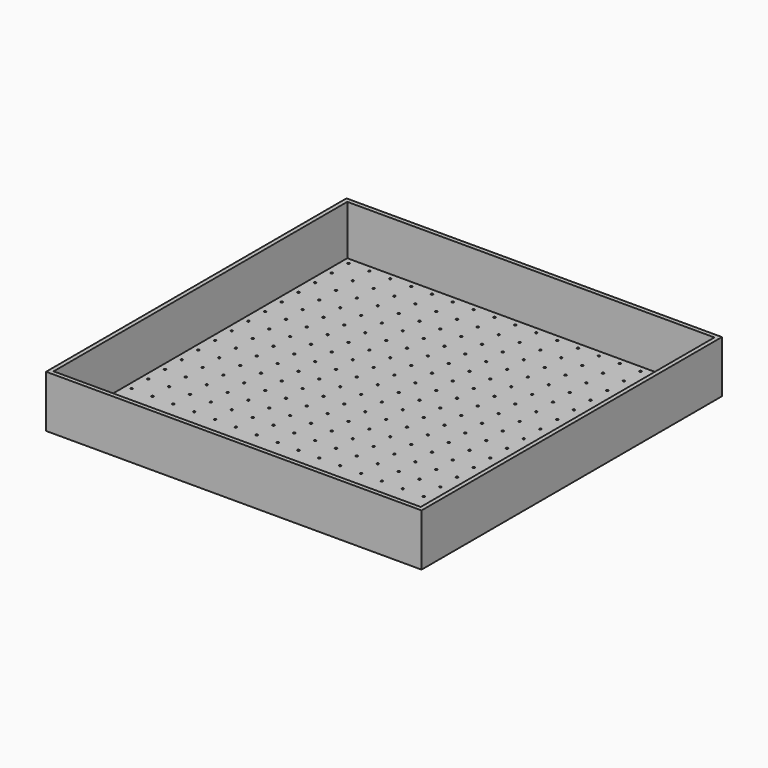
from build123d import *

# Parameters (mm, degrees)
F0_W     = 180
F0_H     = 180
F0_W_2   = 176
F0_H_2   = 176
F0_R     = 0.5
F1_DEPTH = 1.2
F2_DEPTH = 25


with BuildPart() as f1:
    # F0 (on Top) → F1 (new body)
    with BuildSketch(Plane.XY):
        with Locations((90, -90)):
            Rectangle(F0_W, F0_H)
        with Locations((90, -90)):
            Rectangle(F0_W_2, F0_H_2, mode=Mode.SUBTRACT)
        with Locations((90, -90)):
            Rectangle(F0_W_2, F0_H_2)
        with Locations((5, -175)):
            Circle(F0_R, mode=Mode.SUBTRACT)
        with Locations((15, -175)):
            Circle(F0_R, mode=Mode.SUBTRACT)
        with Locations((5, -165)):
            Circle(F0_R, mode=Mode.SUBTRACT)
        with Locations((15, -165)):
            Circle(F0_R, mode=Mode.SUBTRACT)
        with Locations((25, -175)):
            Circle(F0_R, mode=Mode.SUBTRACT)
        with Locations((35, -175)):
            Circle(F0_R, mode=Mode.SUBTRACT)
        with Locations((25, -165)):
            Circle(F0_R, mode=Mode.SUBTRACT)
        with Locations((35, -165)):
            Circle(F0_R, mode=Mode.SUBTRACT)
        with Locations((5, -155)):
            Circle(F0_R, mode=Mode.SUBTRACT)
        with Locations((15, -155)):
            Circle(F0_R, mode=Mode.SUBTRACT)
        with Locations((5, -145)):
            Circle(F0_R, mode=Mode.SUBTRACT)
        with Locations((15, -145)):
            Circle(F0_R, mode=Mode.SUBTRACT)
        with Locations((25, -155)):
            Circle(F0_R, mode=Mode.SUBTRACT)
        with Locations((35, -155)):
            Circle(F0_R, mode=Mode.SUBTRACT)
        with Locations((25, -145)):
            Circle(F0_R, mode=Mode.SUBTRACT)
        with Locations((35, -145)):
            Circle(F0_R, mode=Mode.SUBTRACT)
        with Locations((45, -175)):
            Circle(F0_R, mode=Mode.SUBTRACT)
        with Locations((55, -175)):
            Circle(F0_R, mode=Mode.SUBTRACT)
        with Locations((65, -175)):
            Circle(F0_R, mode=Mode.SUBTRACT)
        with Locations((45, -165)):
            Circle(F0_R, mode=Mode.SUBTRACT)
        with Locations((55, -165)):
            Circle(F0_R, mode=Mode.SUBTRACT)
        with Locations((65, -165)):
            Circle(F0_R, mode=Mode.SUBTRACT)
        with Locations((75, -175)):
            Circle(F0_R, mode=Mode.SUBTRACT)
        with Locations((85, -175)):
            Circle(F0_R, mode=Mode.SUBTRACT)
        with Locations((75, -165)):
            Circle(F0_R, mode=Mode.SUBTRACT)
        with Locations((85, -165)):
            Circle(F0_R, mode=Mode.SUBTRACT)
        with Locations((45, -155)):
            Circle(F0_R, mode=Mode.SUBTRACT)
        with Locations((55, -155)):
            Circle(F0_R, mode=Mode.SUBTRACT)
        with Locations((65, -155)):
            Circle(F0_R, mode=Mode.SUBTRACT)
        with Locations((45, -145)):
            Circle(F0_R, mode=Mode.SUBTRACT)
        with Locations((55, -145)):
            Circle(F0_R, mode=Mode.SUBTRACT)
        with Locations((65, -145)):
            Circle(F0_R, mode=Mode.SUBTRACT)
        with Locations((75, -155)):
            Circle(F0_R, mode=Mode.SUBTRACT)
        with Locations((85, -155)):
            Circle(F0_R, mode=Mode.SUBTRACT)
        with Locations((75, -145)):
            Circle(F0_R, mode=Mode.SUBTRACT)
        with Locations((85, -145)):
            Circle(F0_R, mode=Mode.SUBTRACT)
        with Locations((5, -135)):
            Circle(F0_R, mode=Mode.SUBTRACT)
        with Locations((5, -125)):
            Circle(F0_R, mode=Mode.SUBTRACT)
        with Locations((15, -135)):
            Circle(F0_R, mode=Mode.SUBTRACT)
        with Locations((15, -125)):
            Circle(F0_R, mode=Mode.SUBTRACT)
        with Locations((5, -115)):
            Circle(F0_R, mode=Mode.SUBTRACT)
        with Locations((15, -115)):
            Circle(F0_R, mode=Mode.SUBTRACT)
        with Locations((25, -135)):
            Circle(F0_R, mode=Mode.SUBTRACT)
        with Locations((25, -125)):
            Circle(F0_R, mode=Mode.SUBTRACT)
        with Locations((35, -135)):
            Circle(F0_R, mode=Mode.SUBTRACT)
        with Locations((35, -125)):
            Circle(F0_R, mode=Mode.SUBTRACT)
        with Locations((25, -115)):
            Circle(F0_R, mode=Mode.SUBTRACT)
        with Locations((35, -115)):
            Circle(F0_R, mode=Mode.SUBTRACT)
        with Locations((5, -105)):
            Circle(F0_R, mode=Mode.SUBTRACT)
        with Locations((15, -105)):
            Circle(F0_R, mode=Mode.SUBTRACT)
        with Locations((5, -95)):
            Circle(F0_R, mode=Mode.SUBTRACT)
        with Locations((15, -95)):
            Circle(F0_R, mode=Mode.SUBTRACT)
        with Locations((25, -105)):
            Circle(F0_R, mode=Mode.SUBTRACT)
        with Locations((35, -105)):
            Circle(F0_R, mode=Mode.SUBTRACT)
        with Locations((25, -95)):
            Circle(F0_R, mode=Mode.SUBTRACT)
        with Locations((35, -95)):
            Circle(F0_R, mode=Mode.SUBTRACT)
        with Locations((45, -135)):
            Circle(F0_R, mode=Mode.SUBTRACT)
        with Locations((55, -135)):
            Circle(F0_R, mode=Mode.SUBTRACT)
        with Locations((45, -125)):
            Circle(F0_R, mode=Mode.SUBTRACT)
        with Locations((55, -125)):
            Circle(F0_R, mode=Mode.SUBTRACT)
        with Locations((65, -135)):
            Circle(F0_R, mode=Mode.SUBTRACT)
        with Locations((65, -125)):
            Circle(F0_R, mode=Mode.SUBTRACT)
        with Locations((45, -115)):
            Circle(F0_R, mode=Mode.SUBTRACT)
        with Locations((55, -115)):
            Circle(F0_R, mode=Mode.SUBTRACT)
        with Locations((65, -115)):
            Circle(F0_R, mode=Mode.SUBTRACT)
        with Locations((75, -135)):
            Circle(F0_R, mode=Mode.SUBTRACT)
        with Locations((75, -125)):
            Circle(F0_R, mode=Mode.SUBTRACT)
        with Locations((85, -135)):
            Circle(F0_R, mode=Mode.SUBTRACT)
        with Locations((85, -125)):
            Circle(F0_R, mode=Mode.SUBTRACT)
        with Locations((75, -115)):
            Circle(F0_R, mode=Mode.SUBTRACT)
        with Locations((85, -115)):
            Circle(F0_R, mode=Mode.SUBTRACT)
        with Locations((45, -105)):
            Circle(F0_R, mode=Mode.SUBTRACT)
        with Locations((55, -105)):
            Circle(F0_R, mode=Mode.SUBTRACT)
        with Locations((65, -105)):
            Circle(F0_R, mode=Mode.SUBTRACT)
        with Locations((45, -95)):
            Circle(F0_R, mode=Mode.SUBTRACT)
        with Locations((55, -95)):
            Circle(F0_R, mode=Mode.SUBTRACT)
        with Locations((65, -95)):
            Circle(F0_R, mode=Mode.SUBTRACT)
        with Locations((75, -105)):
            Circle(F0_R, mode=Mode.SUBTRACT)
        with Locations((85, -105)):
            Circle(F0_R, mode=Mode.SUBTRACT)
        with Locations((75, -95)):
            Circle(F0_R, mode=Mode.SUBTRACT)
        with Locations((85, -95)):
            Circle(F0_R, mode=Mode.SUBTRACT)
        with Locations((95, -175)):
            Circle(F0_R, mode=Mode.SUBTRACT)
        with Locations((105, -175)):
            Circle(F0_R, mode=Mode.SUBTRACT)
        with Locations((95, -165)):
            Circle(F0_R, mode=Mode.SUBTRACT)
        with Locations((105, -165)):
            Circle(F0_R, mode=Mode.SUBTRACT)
        with Locations((115, -175)):
            Circle(F0_R, mode=Mode.SUBTRACT)
        with Locations((125, -175)):
            Circle(F0_R, mode=Mode.SUBTRACT)
        with Locations((115, -165)):
            Circle(F0_R, mode=Mode.SUBTRACT)
        with Locations((125, -165)):
            Circle(F0_R, mode=Mode.SUBTRACT)
        with Locations((95, -155)):
            Circle(F0_R, mode=Mode.SUBTRACT)
        with Locations((105, -155)):
            Circle(F0_R, mode=Mode.SUBTRACT)
        with Locations((95, -145)):
            Circle(F0_R, mode=Mode.SUBTRACT)
        with Locations((105, -145)):
            Circle(F0_R, mode=Mode.SUBTRACT)
        with Locations((115, -155)):
            Circle(F0_R, mode=Mode.SUBTRACT)
        with Locations((125, -155)):
            Circle(F0_R, mode=Mode.SUBTRACT)
        with Locations((115, -145)):
            Circle(F0_R, mode=Mode.SUBTRACT)
        with Locations((125, -145)):
            Circle(F0_R, mode=Mode.SUBTRACT)
        with Locations((135, -175)):
            Circle(F0_R, mode=Mode.SUBTRACT)
        with Locations((145, -175)):
            Circle(F0_R, mode=Mode.SUBTRACT)
        with Locations((155, -175)):
            Circle(F0_R, mode=Mode.SUBTRACT)
        with Locations((135, -165)):
            Circle(F0_R, mode=Mode.SUBTRACT)
        with Locations((145, -165)):
            Circle(F0_R, mode=Mode.SUBTRACT)
        with Locations((155, -165)):
            Circle(F0_R, mode=Mode.SUBTRACT)
        with Locations((165, -175)):
            Circle(F0_R, mode=Mode.SUBTRACT)
        with Locations((175, -175)):
            Circle(F0_R, mode=Mode.SUBTRACT)
        with Locations((165, -165)):
            Circle(F0_R, mode=Mode.SUBTRACT)
        with Locations((175, -165)):
            Circle(F0_R, mode=Mode.SUBTRACT)
        with Locations((135, -155)):
            Circle(F0_R, mode=Mode.SUBTRACT)
        with Locations((145, -155)):
            Circle(F0_R, mode=Mode.SUBTRACT)
        with Locations((155, -155)):
            Circle(F0_R, mode=Mode.SUBTRACT)
        with Locations((135, -145)):
            Circle(F0_R, mode=Mode.SUBTRACT)
        with Locations((145, -145)):
            Circle(F0_R, mode=Mode.SUBTRACT)
        with Locations((155, -145)):
            Circle(F0_R, mode=Mode.SUBTRACT)
        with Locations((165, -155)):
            Circle(F0_R, mode=Mode.SUBTRACT)
        with Locations((175, -155)):
            Circle(F0_R, mode=Mode.SUBTRACT)
        with Locations((165, -145)):
            Circle(F0_R, mode=Mode.SUBTRACT)
        with Locations((175, -145)):
            Circle(F0_R, mode=Mode.SUBTRACT)
        with Locations((95, -135)):
            Circle(F0_R, mode=Mode.SUBTRACT)
        with Locations((95, -125)):
            Circle(F0_R, mode=Mode.SUBTRACT)
        with Locations((105, -135)):
            Circle(F0_R, mode=Mode.SUBTRACT)
        with Locations((105, -125)):
            Circle(F0_R, mode=Mode.SUBTRACT)
        with Locations((95, -115)):
            Circle(F0_R, mode=Mode.SUBTRACT)
        with Locations((105, -115)):
            Circle(F0_R, mode=Mode.SUBTRACT)
        with Locations((115, -135)):
            Circle(F0_R, mode=Mode.SUBTRACT)
        with Locations((115, -125)):
            Circle(F0_R, mode=Mode.SUBTRACT)
        with Locations((125, -135)):
            Circle(F0_R, mode=Mode.SUBTRACT)
        with Locations((125, -125)):
            Circle(F0_R, mode=Mode.SUBTRACT)
        with Locations((115, -115)):
            Circle(F0_R, mode=Mode.SUBTRACT)
        with Locations((125, -115)):
            Circle(F0_R, mode=Mode.SUBTRACT)
        with Locations((95, -105)):
            Circle(F0_R, mode=Mode.SUBTRACT)
        with Locations((105, -105)):
            Circle(F0_R, mode=Mode.SUBTRACT)
        with Locations((95, -95)):
            Circle(F0_R, mode=Mode.SUBTRACT)
        with Locations((105, -95)):
            Circle(F0_R, mode=Mode.SUBTRACT)
        with Locations((115, -105)):
            Circle(F0_R, mode=Mode.SUBTRACT)
        with Locations((125, -105)):
            Circle(F0_R, mode=Mode.SUBTRACT)
        with Locations((115, -95)):
            Circle(F0_R, mode=Mode.SUBTRACT)
        with Locations((125, -95)):
            Circle(F0_R, mode=Mode.SUBTRACT)
        with Locations((135, -135)):
            Circle(F0_R, mode=Mode.SUBTRACT)
        with Locations((145, -135)):
            Circle(F0_R, mode=Mode.SUBTRACT)
        with Locations((135, -125)):
            Circle(F0_R, mode=Mode.SUBTRACT)
        with Locations((145, -125)):
            Circle(F0_R, mode=Mode.SUBTRACT)
        with Locations((155, -135)):
            Circle(F0_R, mode=Mode.SUBTRACT)
        with Locations((155, -125)):
            Circle(F0_R, mode=Mode.SUBTRACT)
        with Locations((135, -115)):
            Circle(F0_R, mode=Mode.SUBTRACT)
        with Locations((145, -115)):
            Circle(F0_R, mode=Mode.SUBTRACT)
        with Locations((155, -115)):
            Circle(F0_R, mode=Mode.SUBTRACT)
        with Locations((165, -135)):
            Circle(F0_R, mode=Mode.SUBTRACT)
        with Locations((165, -125)):
            Circle(F0_R, mode=Mode.SUBTRACT)
        with Locations((175, -135)):
            Circle(F0_R, mode=Mode.SUBTRACT)
        with Locations((175, -125)):
            Circle(F0_R, mode=Mode.SUBTRACT)
        with Locations((165, -115)):
            Circle(F0_R, mode=Mode.SUBTRACT)
        with Locations((175, -115)):
            Circle(F0_R, mode=Mode.SUBTRACT)
        with Locations((135, -105)):
            Circle(F0_R, mode=Mode.SUBTRACT)
        with Locations((145, -105)):
            Circle(F0_R, mode=Mode.SUBTRACT)
        with Locations((155, -105)):
            Circle(F0_R, mode=Mode.SUBTRACT)
        with Locations((135, -95)):
            Circle(F0_R, mode=Mode.SUBTRACT)
        with Locations((145, -95)):
            Circle(F0_R, mode=Mode.SUBTRACT)
        with Locations((155, -95)):
            Circle(F0_R, mode=Mode.SUBTRACT)
        with Locations((165, -105)):
            Circle(F0_R, mode=Mode.SUBTRACT)
        with Locations((175, -105)):
            Circle(F0_R, mode=Mode.SUBTRACT)
        with Locations((165, -95)):
            Circle(F0_R, mode=Mode.SUBTRACT)
        with Locations((175, -95)):
            Circle(F0_R, mode=Mode.SUBTRACT)
        with Locations((5, -85)):
            Circle(F0_R, mode=Mode.SUBTRACT)
        with Locations((15, -85)):
            Circle(F0_R, mode=Mode.SUBTRACT)
        with Locations((5, -75)):
            Circle(F0_R, mode=Mode.SUBTRACT)
        with Locations((15, -75)):
            Circle(F0_R, mode=Mode.SUBTRACT)
        with Locations((25, -85)):
            Circle(F0_R, mode=Mode.SUBTRACT)
        with Locations((35, -85)):
            Circle(F0_R, mode=Mode.SUBTRACT)
        with Locations((25, -75)):
            Circle(F0_R, mode=Mode.SUBTRACT)
        with Locations((35, -75)):
            Circle(F0_R, mode=Mode.SUBTRACT)
        with Locations((5, -65)):
            Circle(F0_R, mode=Mode.SUBTRACT)
        with Locations((15, -65)):
            Circle(F0_R, mode=Mode.SUBTRACT)
        with Locations((5, -55)):
            Circle(F0_R, mode=Mode.SUBTRACT)
        with Locations((15, -55)):
            Circle(F0_R, mode=Mode.SUBTRACT)
        with Locations((25, -65)):
            Circle(F0_R, mode=Mode.SUBTRACT)
        with Locations((35, -65)):
            Circle(F0_R, mode=Mode.SUBTRACT)
        with Locations((25, -55)):
            Circle(F0_R, mode=Mode.SUBTRACT)
        with Locations((35, -55)):
            Circle(F0_R, mode=Mode.SUBTRACT)
        with Locations((45, -85)):
            Circle(F0_R, mode=Mode.SUBTRACT)
        with Locations((55, -85)):
            Circle(F0_R, mode=Mode.SUBTRACT)
        with Locations((65, -85)):
            Circle(F0_R, mode=Mode.SUBTRACT)
        with Locations((45, -75)):
            Circle(F0_R, mode=Mode.SUBTRACT)
        with Locations((55, -75)):
            Circle(F0_R, mode=Mode.SUBTRACT)
        with Locations((65, -75)):
            Circle(F0_R, mode=Mode.SUBTRACT)
        with Locations((75, -85)):
            Circle(F0_R, mode=Mode.SUBTRACT)
        with Locations((85, -85)):
            Circle(F0_R, mode=Mode.SUBTRACT)
        with Locations((75, -75)):
            Circle(F0_R, mode=Mode.SUBTRACT)
        with Locations((85, -75)):
            Circle(F0_R, mode=Mode.SUBTRACT)
        with Locations((45, -65)):
            Circle(F0_R, mode=Mode.SUBTRACT)
        with Locations((55, -65)):
            Circle(F0_R, mode=Mode.SUBTRACT)
        with Locations((65, -65)):
            Circle(F0_R, mode=Mode.SUBTRACT)
        with Locations((45, -55)):
            Circle(F0_R, mode=Mode.SUBTRACT)
        with Locations((55, -55)):
            Circle(F0_R, mode=Mode.SUBTRACT)
        with Locations((65, -55)):
            Circle(F0_R, mode=Mode.SUBTRACT)
        with Locations((75, -65)):
            Circle(F0_R, mode=Mode.SUBTRACT)
        with Locations((85, -65)):
            Circle(F0_R, mode=Mode.SUBTRACT)
        with Locations((75, -55)):
            Circle(F0_R, mode=Mode.SUBTRACT)
        with Locations((85, -55)):
            Circle(F0_R, mode=Mode.SUBTRACT)
        with Locations((5, -45)):
            Circle(F0_R, mode=Mode.SUBTRACT)
        with Locations((5, -35)):
            Circle(F0_R, mode=Mode.SUBTRACT)
        with Locations((15, -45)):
            Circle(F0_R, mode=Mode.SUBTRACT)
        with Locations((15, -35)):
            Circle(F0_R, mode=Mode.SUBTRACT)
        with Locations((5, -25)):
            Circle(F0_R, mode=Mode.SUBTRACT)
        with Locations((15, -25)):
            Circle(F0_R, mode=Mode.SUBTRACT)
        with Locations((25, -45)):
            Circle(F0_R, mode=Mode.SUBTRACT)
        with Locations((25, -35)):
            Circle(F0_R, mode=Mode.SUBTRACT)
        with Locations((35, -45)):
            Circle(F0_R, mode=Mode.SUBTRACT)
        with Locations((35, -35)):
            Circle(F0_R, mode=Mode.SUBTRACT)
        with Locations((25, -25)):
            Circle(F0_R, mode=Mode.SUBTRACT)
        with Locations((35, -25)):
            Circle(F0_R, mode=Mode.SUBTRACT)
        with Locations((5, -15)):
            Circle(F0_R, mode=Mode.SUBTRACT)
        with Locations((15, -15)):
            Circle(F0_R, mode=Mode.SUBTRACT)
        with Locations((5, -5)):
            Circle(F0_R, mode=Mode.SUBTRACT)
        with Locations((15, -5)):
            Circle(F0_R, mode=Mode.SUBTRACT)
        with Locations((25, -15)):
            Circle(F0_R, mode=Mode.SUBTRACT)
        with Locations((35, -15)):
            Circle(F0_R, mode=Mode.SUBTRACT)
        with Locations((25, -5)):
            Circle(F0_R, mode=Mode.SUBTRACT)
        with Locations((35, -5)):
            Circle(F0_R, mode=Mode.SUBTRACT)
        with Locations((45, -45)):
            Circle(F0_R, mode=Mode.SUBTRACT)
        with Locations((55, -45)):
            Circle(F0_R, mode=Mode.SUBTRACT)
        with Locations((45, -35)):
            Circle(F0_R, mode=Mode.SUBTRACT)
        with Locations((55, -35)):
            Circle(F0_R, mode=Mode.SUBTRACT)
        with Locations((65, -45)):
            Circle(F0_R, mode=Mode.SUBTRACT)
        with Locations((65, -35)):
            Circle(F0_R, mode=Mode.SUBTRACT)
        with Locations((45, -25)):
            Circle(F0_R, mode=Mode.SUBTRACT)
        with Locations((55, -25)):
            Circle(F0_R, mode=Mode.SUBTRACT)
        with Locations((65, -25)):
            Circle(F0_R, mode=Mode.SUBTRACT)
        with Locations((75, -45)):
            Circle(F0_R, mode=Mode.SUBTRACT)
        with Locations((75, -35)):
            Circle(F0_R, mode=Mode.SUBTRACT)
        with Locations((85, -45)):
            Circle(F0_R, mode=Mode.SUBTRACT)
        with Locations((85, -35)):
            Circle(F0_R, mode=Mode.SUBTRACT)
        with Locations((75, -25)):
            Circle(F0_R, mode=Mode.SUBTRACT)
        with Locations((85, -25)):
            Circle(F0_R, mode=Mode.SUBTRACT)
        with Locations((45, -15)):
            Circle(F0_R, mode=Mode.SUBTRACT)
        with Locations((55, -15)):
            Circle(F0_R, mode=Mode.SUBTRACT)
        with Locations((65, -15)):
            Circle(F0_R, mode=Mode.SUBTRACT)
        with Locations((45, -5)):
            Circle(F0_R, mode=Mode.SUBTRACT)
        with Locations((55, -5)):
            Circle(F0_R, mode=Mode.SUBTRACT)
        with Locations((65, -5)):
            Circle(F0_R, mode=Mode.SUBTRACT)
        with Locations((75, -15)):
            Circle(F0_R, mode=Mode.SUBTRACT)
        with Locations((85, -15)):
            Circle(F0_R, mode=Mode.SUBTRACT)
        with Locations((75, -5)):
            Circle(F0_R, mode=Mode.SUBTRACT)
        with Locations((85, -5)):
            Circle(F0_R, mode=Mode.SUBTRACT)
        with Locations((95, -85)):
            Circle(F0_R, mode=Mode.SUBTRACT)
        with Locations((105, -85)):
            Circle(F0_R, mode=Mode.SUBTRACT)
        with Locations((95, -75)):
            Circle(F0_R, mode=Mode.SUBTRACT)
        with Locations((105, -75)):
            Circle(F0_R, mode=Mode.SUBTRACT)
        with Locations((115, -85)):
            Circle(F0_R, mode=Mode.SUBTRACT)
        with Locations((125, -85)):
            Circle(F0_R, mode=Mode.SUBTRACT)
        with Locations((115, -75)):
            Circle(F0_R, mode=Mode.SUBTRACT)
        with Locations((125, -75)):
            Circle(F0_R, mode=Mode.SUBTRACT)
        with Locations((95, -65)):
            Circle(F0_R, mode=Mode.SUBTRACT)
        with Locations((105, -65)):
            Circle(F0_R, mode=Mode.SUBTRACT)
        with Locations((95, -55)):
            Circle(F0_R, mode=Mode.SUBTRACT)
        with Locations((105, -55)):
            Circle(F0_R, mode=Mode.SUBTRACT)
        with Locations((115, -65)):
            Circle(F0_R, mode=Mode.SUBTRACT)
        with Locations((125, -65)):
            Circle(F0_R, mode=Mode.SUBTRACT)
        with Locations((115, -55)):
            Circle(F0_R, mode=Mode.SUBTRACT)
        with Locations((125, -55)):
            Circle(F0_R, mode=Mode.SUBTRACT)
        with Locations((135, -85)):
            Circle(F0_R, mode=Mode.SUBTRACT)
        with Locations((145, -85)):
            Circle(F0_R, mode=Mode.SUBTRACT)
        with Locations((155, -85)):
            Circle(F0_R, mode=Mode.SUBTRACT)
        with Locations((135, -75)):
            Circle(F0_R, mode=Mode.SUBTRACT)
        with Locations((145, -75)):
            Circle(F0_R, mode=Mode.SUBTRACT)
        with Locations((155, -75)):
            Circle(F0_R, mode=Mode.SUBTRACT)
        with Locations((165, -85)):
            Circle(F0_R, mode=Mode.SUBTRACT)
        with Locations((175, -85)):
            Circle(F0_R, mode=Mode.SUBTRACT)
        with Locations((165, -75)):
            Circle(F0_R, mode=Mode.SUBTRACT)
        with Locations((175, -75)):
            Circle(F0_R, mode=Mode.SUBTRACT)
        with Locations((135, -65)):
            Circle(F0_R, mode=Mode.SUBTRACT)
        with Locations((145, -65)):
            Circle(F0_R, mode=Mode.SUBTRACT)
        with Locations((155, -65)):
            Circle(F0_R, mode=Mode.SUBTRACT)
        with Locations((135, -55)):
            Circle(F0_R, mode=Mode.SUBTRACT)
        with Locations((145, -55)):
            Circle(F0_R, mode=Mode.SUBTRACT)
        with Locations((155, -55)):
            Circle(F0_R, mode=Mode.SUBTRACT)
        with Locations((165, -65)):
            Circle(F0_R, mode=Mode.SUBTRACT)
        with Locations((175, -65)):
            Circle(F0_R, mode=Mode.SUBTRACT)
        with Locations((165, -55)):
            Circle(F0_R, mode=Mode.SUBTRACT)
        with Locations((175, -55)):
            Circle(F0_R, mode=Mode.SUBTRACT)
        with Locations((95, -45)):
            Circle(F0_R, mode=Mode.SUBTRACT)
        with Locations((95, -35)):
            Circle(F0_R, mode=Mode.SUBTRACT)
        with Locations((105, -45)):
            Circle(F0_R, mode=Mode.SUBTRACT)
        with Locations((105, -35)):
            Circle(F0_R, mode=Mode.SUBTRACT)
        with Locations((95, -25)):
            Circle(F0_R, mode=Mode.SUBTRACT)
        with Locations((105, -25)):
            Circle(F0_R, mode=Mode.SUBTRACT)
        with Locations((115, -45)):
            Circle(F0_R, mode=Mode.SUBTRACT)
        with Locations((115, -35)):
            Circle(F0_R, mode=Mode.SUBTRACT)
        with Locations((125, -45)):
            Circle(F0_R, mode=Mode.SUBTRACT)
        with Locations((125, -35)):
            Circle(F0_R, mode=Mode.SUBTRACT)
        with Locations((115, -25)):
            Circle(F0_R, mode=Mode.SUBTRACT)
        with Locations((125, -25)):
            Circle(F0_R, mode=Mode.SUBTRACT)
        with Locations((95, -15)):
            Circle(F0_R, mode=Mode.SUBTRACT)
        with Locations((105, -15)):
            Circle(F0_R, mode=Mode.SUBTRACT)
        with Locations((95, -5)):
            Circle(F0_R, mode=Mode.SUBTRACT)
        with Locations((105, -5)):
            Circle(F0_R, mode=Mode.SUBTRACT)
        with Locations((115, -15)):
            Circle(F0_R, mode=Mode.SUBTRACT)
        with Locations((125, -15)):
            Circle(F0_R, mode=Mode.SUBTRACT)
        with Locations((115, -5)):
            Circle(F0_R, mode=Mode.SUBTRACT)
        with Locations((125, -5)):
            Circle(F0_R, mode=Mode.SUBTRACT)
        with Locations((135, -45)):
            Circle(F0_R, mode=Mode.SUBTRACT)
        with Locations((145, -45)):
            Circle(F0_R, mode=Mode.SUBTRACT)
        with Locations((135, -35)):
            Circle(F0_R, mode=Mode.SUBTRACT)
        with Locations((145, -35)):
            Circle(F0_R, mode=Mode.SUBTRACT)
        with Locations((155, -45)):
            Circle(F0_R, mode=Mode.SUBTRACT)
        with Locations((155, -35)):
            Circle(F0_R, mode=Mode.SUBTRACT)
        with Locations((135, -25)):
            Circle(F0_R, mode=Mode.SUBTRACT)
        with Locations((145, -25)):
            Circle(F0_R, mode=Mode.SUBTRACT)
        with Locations((155, -25)):
            Circle(F0_R, mode=Mode.SUBTRACT)
        with Locations((165, -45)):
            Circle(F0_R, mode=Mode.SUBTRACT)
        with Locations((165, -35)):
            Circle(F0_R, mode=Mode.SUBTRACT)
        with Locations((175, -45)):
            Circle(F0_R, mode=Mode.SUBTRACT)
        with Locations((175, -35)):
            Circle(F0_R, mode=Mode.SUBTRACT)
        with Locations((165, -25)):
            Circle(F0_R, mode=Mode.SUBTRACT)
        with Locations((175, -25)):
            Circle(F0_R, mode=Mode.SUBTRACT)
        with Locations((135, -15)):
            Circle(F0_R, mode=Mode.SUBTRACT)
        with Locations((145, -15)):
            Circle(F0_R, mode=Mode.SUBTRACT)
        with Locations((155, -15)):
            Circle(F0_R, mode=Mode.SUBTRACT)
        with Locations((135, -5)):
            Circle(F0_R, mode=Mode.SUBTRACT)
        with Locations((145, -5)):
            Circle(F0_R, mode=Mode.SUBTRACT)
        with Locations((155, -5)):
            Circle(F0_R, mode=Mode.SUBTRACT)
        with Locations((165, -15)):
            Circle(F0_R, mode=Mode.SUBTRACT)
        with Locations((175, -15)):
            Circle(F0_R, mode=Mode.SUBTRACT)
        with Locations((165, -5)):
            Circle(F0_R, mode=Mode.SUBTRACT)
        with Locations((175, -5)):
            Circle(F0_R, mode=Mode.SUBTRACT)
    extrude(amount=F1_DEPTH)

    # F0 (on Top) → F2 (join)
    with BuildSketch(Plane.XY):
        with Locations((90, -90)):
            Rectangle(F0_W, F0_H)
        with Locations((90, -90)):
            Rectangle(F0_W_2, F0_H_2, mode=Mode.SUBTRACT)
    extrude(amount=F2_DEPTH)


solid = f1.part
